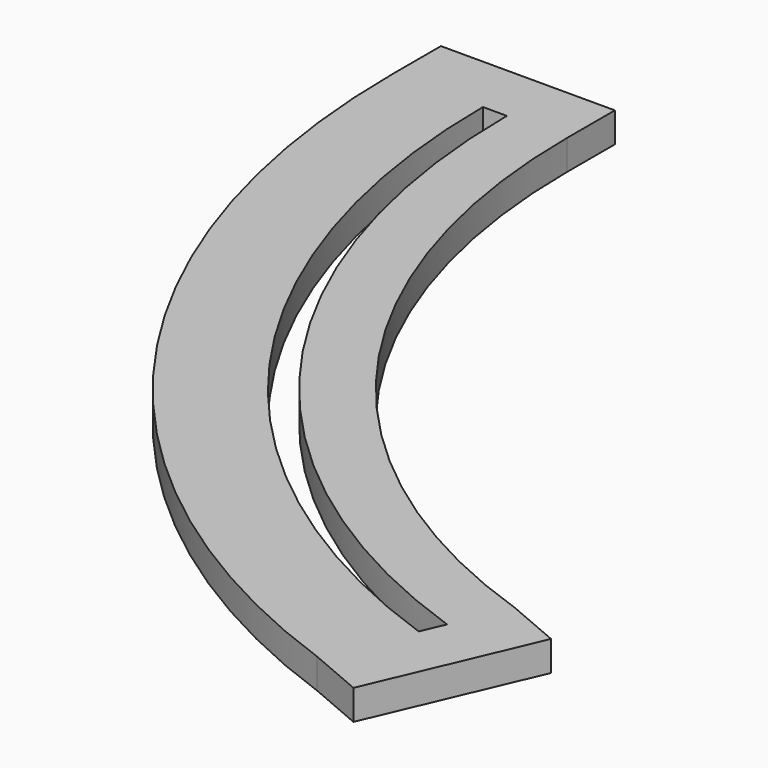
from build123d import *

# Parameters (mm, degrees)
F1_DEPTH = 12.7


with BuildPart() as f1:
    # F0 (on Top) → F1 (new body)
    with BuildSketch(Plane.XY):
        with BuildLine():
            ThreePointArc((129.422316, -115.545373), (-12.974184, -10.525769), (-67.249111, 157.878841))
            Line((-67.249111, 157.878841), (-67.249111, 183.278841))
            Line((-67.249111, 183.278841), (-140.909111, 183.278841))
            Line((-140.909111, 183.278841), (-140.909111, 157.878841))
            ThreePointArc((-140.909111, 157.878841), (-74.536341, -51.212117), (100.278697, -183.741644))
            Line((100.278697, -183.741644), (123.635304, -193.723071))
            Line((123.635304, -193.723071), (152.778923, -125.5268))
            Line((152.778923, -125.5268), (129.422316, -115.545373))
        make_face()
        with BuildLine():
            Line((-102.809111, 157.878841), (-92.649111, 157.878841))
            ThreePointArc((-92.649111, 157.878841), (-34.176979, -24.508812), (119.440889, -138.901981))
            Line((119.440889, -138.901981), (115.250837, -148.706732))
            ThreePointArc((115.250837, -148.706732), (-42.734212, -30.233396), (-102.809111, 157.878841))
        make_face(mode=Mode.SUBTRACT)
    extrude(amount=F1_DEPTH)


solid = f1.part
